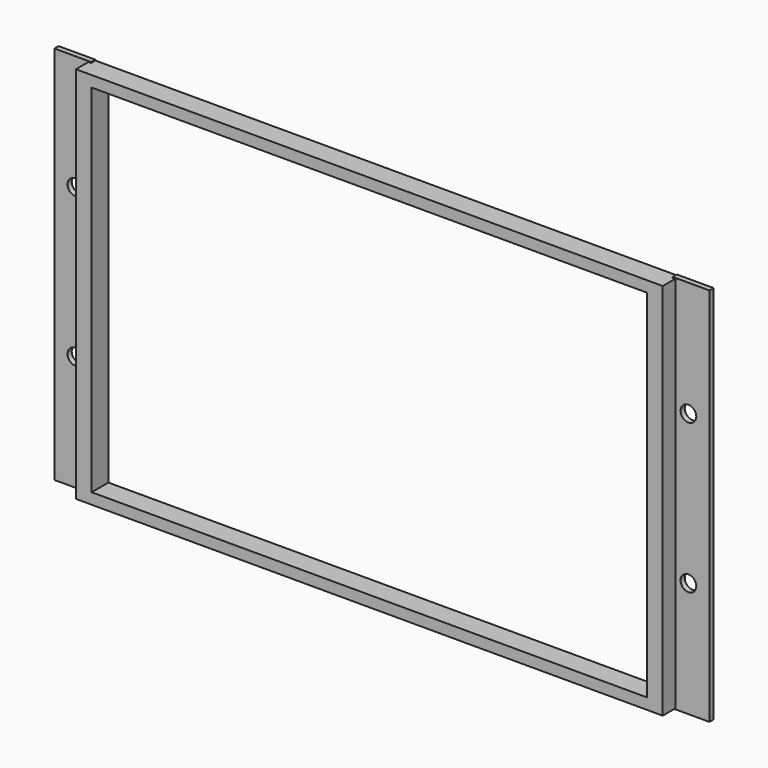
from build123d import *

# Parameters (mm, degrees)
F0_W      = 1120
F0_H      = 722
F1_DEPTH  = 40
F2_W      = 70
F2_H      = 725
F3_DEPTH  = 10
F5_D      = 30
F7_D      = 30
F8_W      = 70
F8_H      = 725
F9_DEPTH  = 10
F11_D     = 30
F12_W     = 1060
F12_H     = 680
F13_DEPTH = 40.001


with BuildPart() as f1:
    # F0 (on Front) → F1 (new body)
    with BuildSketch(Plane.XZ):
        Rectangle(F0_W, F0_H)
    extrude(amount=F1_DEPTH)

    # F2 (on Front) → F3 (join)
    with BuildSketch(Plane.XZ):
        with Locations((590, 0)):
            Rectangle(F2_W, F2_H)
    extrude(amount=F3_DEPTH)

    # F5 (through all)
    with Locations(Plane.XZ.offset(10)):
        with Locations((585, 142.5)):
            Hole(F5_D / 2)

    # F7 (through all)
    with Locations(Plane.XZ.offset(10)):
        with Locations((585, -142.5)):
            Hole(F7_D / 2)

    # F8 (on Front) → F9 (join)
    with BuildSketch(Plane.XZ):
        with Locations((-590, 0)):
            Rectangle(F8_W, F8_H)
    extrude(amount=F9_DEPTH)

    # F11 (through all)
    with Locations(Plane.XZ.offset(10)):
        with Locations((-585, 142.5), (-585, -142.556826)):
            Hole(F11_D / 2)

    # F12 (on face) → F13 (cut, through all)
    with BuildSketch(Plane.XZ.offset(40)):
        Rectangle(F12_W, F12_H)
    extrude(amount=-F13_DEPTH, mode=Mode.SUBTRACT)


solid = f1.part
